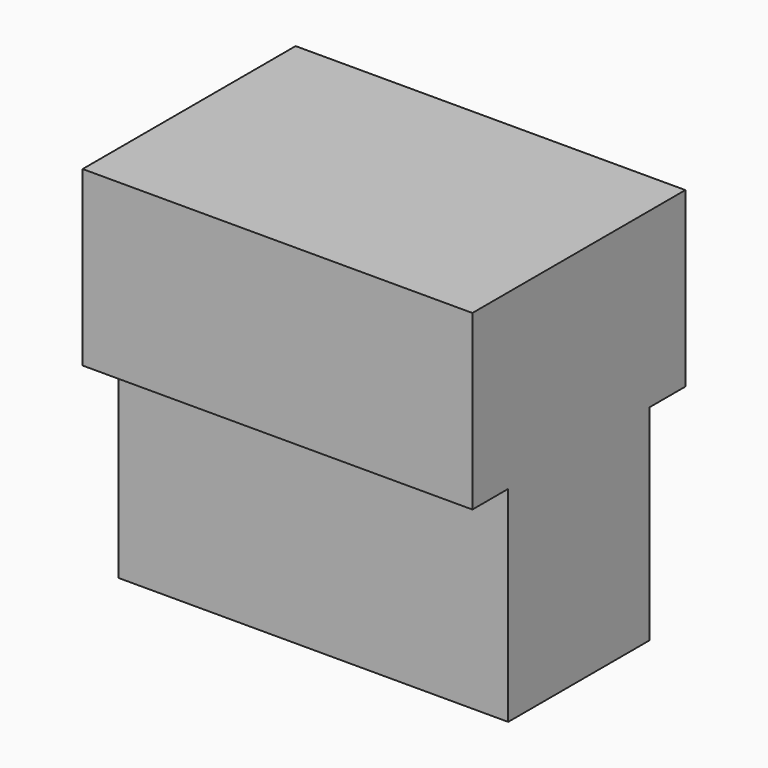
from build123d import *

# Parameters (mm, degrees)
F0_W      = 119.803108
F0_H      = 54.300458
F1_DEPTH  = 32.96413
F1_FACE_W = 119.803108
F1_FACE_H = 54.300458
F2_DEPTH  = 30.10031
F3_W      = 119.803108
F3_H      = 81.823676
F4_DEPTH  = 53.18567


with BuildPart() as f1:
    # F0 (on Top) → F1 (new body)
    with BuildSketch(Plane.XY):
        Rectangle(F0_W, F0_H)
    extrude(amount=F1_DEPTH)

    # F1_face (on face) → F2 (join)
    with BuildSketch(Plane(origin=(0, 0, 0), x_dir=(1, 0, 0), z_dir=(0, 0, -1))):
        Rectangle(F1_FACE_W, F1_FACE_H)
    extrude(amount=F2_DEPTH)

    # F3 (on face) → F4 (join)
    with BuildSketch(Plane.XY.offset(32.96413)):
        Rectangle(F3_W, F3_H)
    extrude(amount=F4_DEPTH)


solid = f1.part
